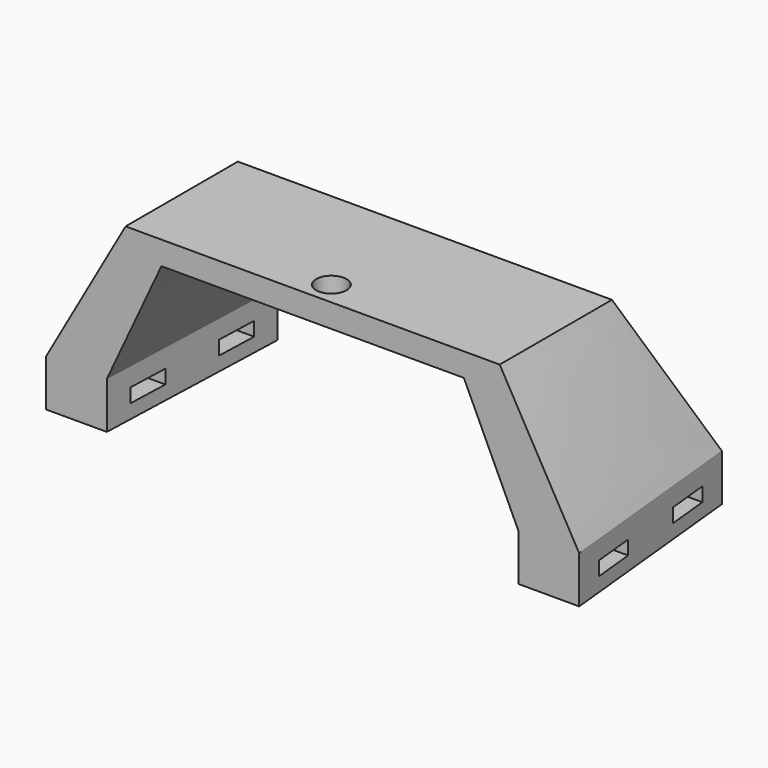
from build123d import *

# Parameters (mm, degrees)
F1_DEPTH  = 10
F3_W      = 10
F3_H      = 30
F6_W      = 80
F6_H      = 30
F7_DEPTH  = 5
F8_R      = 3.25
F9_DEPTH  = 5
F10_W     = 9
F10_H     = 3
F11_DEPTH = 100


with BuildPart() as f1:
    # F0 (on Top) → F1 (new body)
    with BuildSketch(Plane.XY):
        Polygon((-52.5, 43.769281), (-57, 0), (-44, 0), (-42.5, 43.769281), align=None)
        Polygon((42.5, 43.769281), (44, 0), (57, 0), (52.5, 43.769281), align=None)
    extrude(amount=F1_DEPTH)

    # F1_face (on face) → F4 section 0
    with BuildSketch(Plane(origin=(-49.065217, 20.933135, 10), x_dir=(1, 0, 0), z_dir=(0, 0, 1))):
        Polygon((-3.434783, 22.836147), (-7.934783, -20.933135), (5.065217, -20.933135), (6.565217, 22.836147), align=None)
    # F3 (on offset) → F4 section 1
    with BuildSketch(Plane.XY.offset(40)):
        with Locations((-35, 15)):
            Rectangle(F3_W, F3_H)
    loft()

    # F1_face (on face) → F5 section 0
    with BuildSketch(Plane(origin=(-49.065217, 20.933135, 10), x_dir=(1, 0, 0), z_dir=(0, 0, 1))):
        Polygon((91.565217, 22.836147), (93.065217, -20.933135), (106.065217, -20.933135), (101.565217, 22.836147), align=None)
    # F3 (on offset) → F5 section 1
    with BuildSketch(Plane.XY.offset(40)):
        with Locations((35, 15)):
            Rectangle(F3_W, F3_H)
    loft()

    # F6 (on offset) → F7 (join)
    with BuildSketch(Plane.XY.offset(40)):
        with Locations((0, 15)):
            Rectangle(F6_W, F6_H)
    extrude(amount=-F7_DEPTH)

    # F8 (on offset) → F9 (cut, through all)
    with BuildSketch(Plane.XY.offset(40)):
        with Locations((0, 5)):
            Circle(F8_R)
    extrude(amount=-F9_DEPTH, mode=Mode.SUBTRACT)

    # F10 (on Right) → F11 (cut, symmetric)
    with BuildSketch(Plane.YZ):
        with Locations((10.5, 4.5)):
            Rectangle(F10_W, F10_H)
        with Locations((33.269281, 4.5)):
            Rectangle(F10_W, F10_H)
    extrude(amount=F11_DEPTH, both=True, mode=Mode.SUBTRACT)


solid = f1.part
